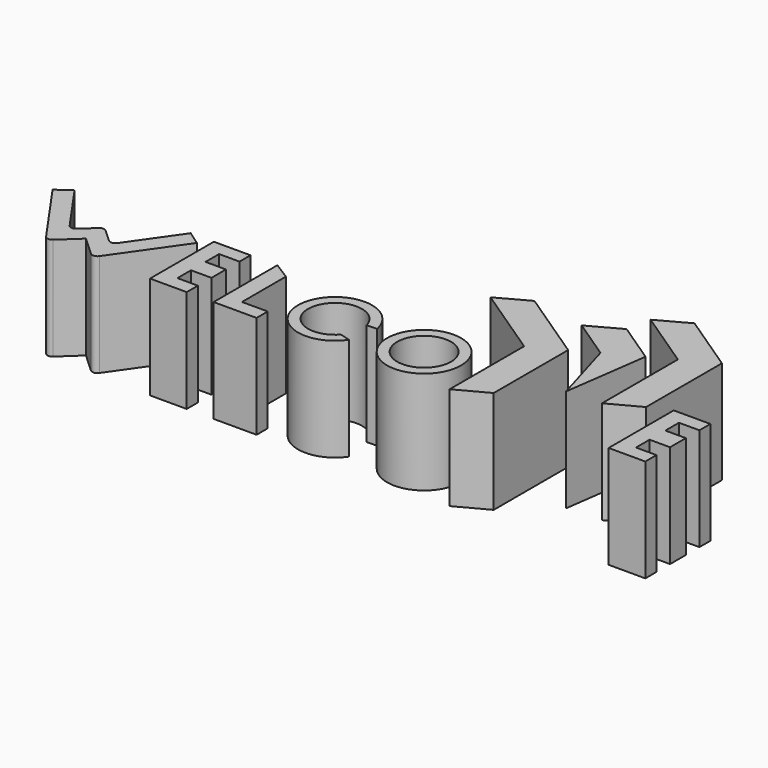
from build123d import *

# Parameters (mm, degrees)
F0_R     = 9.144
F0_R_2   = 6.6548
F1_DEPTH = 25.4
F2_R     = 1.27


with BuildPart() as f1:
    # F0 (on Top) → F1 (new body)
    with BuildSketch(Plane.XY):
        Polygon((-56.225007, 19.692399), (-59.699686, 17.259402), (-47.614523, 0), (-41.885428, 5.31409), (-36.156334, 0), (-24.07117, 17.259402), (-27.545849, 19.692399), (-36.839665, 6.419454), (-41.885428, 11.099711), (-46.931191, 6.419454), align=None)
        Polygon((-12.777022, 19.692399), (-21.835072, 19.692399), (-21.835072, 0), (-12.777022, 0), (-12.777022, 3.441353), (-17.829043, 3.441353), (-17.829043, 7.632353), (-12.777022, 7.632353), (-12.777022, 12.116344), (-17.829043, 12.116344), (-17.829043, 16.307344), (-12.777022, 16.307344), align=None)
        Polygon((-1.890715, 17.016986), (-6.140463, 19.692399), (-6.140463, 0), (4.472522, 0), (4.472522, 3.441353), (-1.890715, 3.441353), align=None)
        with BuildLine():
            Line((22.944822, 10.877335), (25.488318, 10.938227))
            ThreePointArc((25.488318, 10.938227), (7.558864, 10.953297), (24.090238, 4.012171))
            Line((24.090238, 4.012171), (21.497463, 4.727933))
            ThreePointArc((21.497463, 4.727933), (10.046496, 10.668131), (22.944822, 10.877335))
        make_face()
        with Locations((38.51769, 9.144)):
            Circle(F0_R)
        with Locations((38.51769, 9.144)):
            Circle(F0_R_2, mode=Mode.SUBTRACT)
        Polygon((52.135022, 22.975057), (52.135022, 0), (59.755022, 4.07117), (59.755022, 27.046227), (41.859602, 39.013105), (34.310357, 34.89462), align=None)
        Polygon((63.087319, 40.919948), (55.362636, 36.705753), (65.343022, 30.031752), (70.235036, 13.299606), (73.140104, 34.197533), align=None)
        Polygon((71.797889, 50.984127), (64.248644, 46.865642), (78.728104, 37.183057), (78.728104, 13.770558), (86.348104, 17.841728), (86.348104, 41.254227), align=None)
        Polygon((100.439976, 20.083311), (91.381926, 20.083311), (91.381926, 0), (100.439976, 0), (100.439976, 3.441353), (95.387955, 3.441353), (95.387955, 7.632353), (100.439976, 7.632353), (100.439976, 12.507256), (95.387955, 12.507256), (95.387955, 16.698256), (100.439976, 16.698256), align=None)
    extrude(amount=F1_DEPTH)

    # F2
    f2_edges = [f1.edges().sort_by_distance(p)[0] for p in [
        (-36.156334, 0, 12.7),
        (-47.614523, 0, 12.7),
        (-36.839665, 6.419454, 12.7),
        (-46.931191, 6.419454, 12.7),
        (-41.885428, 11.099711, 12.7),
    ]]
    fillet(f2_edges, radius=F2_R)


solid = f1.part
